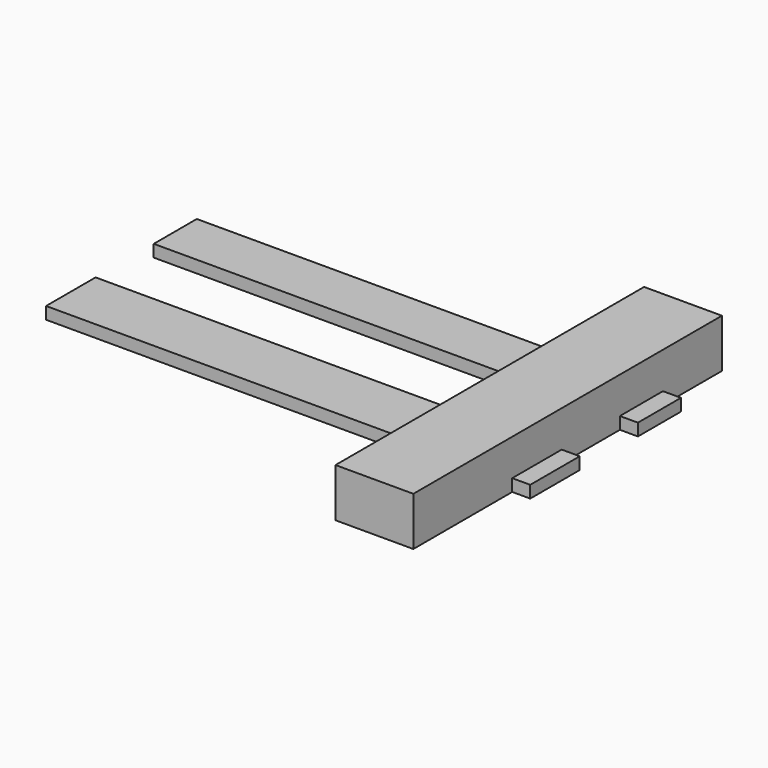
from build123d import *

# Parameters (mm, degrees)
F0_W     = 20.1816186309
F0_H     = 28.1114000827
F0_W_2   = 35.2424010634
F0_W_3   = 81.4566612244
F0_W_4   = 22.8382814676
F0_W_5   = 43.1228186935
F0_W_6   = 40.664061904
F0_W_7   = 9.4144269824
F1_DEPTH = 6.35
F0_H_2   = 32.3267914355
F2_DEPTH = 6.35
F0_H_3   = 64.5633451641
F0_H_4   = 37.9799026996
F0_H_5   = 38.5190211236
F3_DEPTH = 25.4


with BuildPart() as f1:
    # F0 (on Top) → F1 (new body)
    with BuildSketch(Plane.XY):
        with Locations((-126.7898716033, 52.0356027409)):
            Rectangle(F0_W, F0_H)
        with Locations((-99.0778617561, 52.0356027409)):
            Rectangle(F0_W_2, F0_H)
        with Locations((-40.7283306122, 52.0356027409)):
            Rectangle(F0_W_3, F0_H)
        with Locations((11.4191407338, 52.0356027409)):
            Rectangle(F0_W_4, F0_H)
        with Locations((44.3996908143, 52.0356027409)):
            Rectangle(F0_W_5, F0_H)
        with Locations((86.2931311131, 52.0356027409)):
            Rectangle(F0_W_6, F0_H)
        with Locations((111.3323755562, 52.0356027409)):
            Rectangle(F0_W_7, F0_H)
    extrude(amount=F1_DEPTH)


with BuildPart() as f2:
    # F0 (on Top) → F2 (new body)
    with BuildSketch(Plane.XY):
        with Locations((-126.7898716033, -16.1633957177)):
            Rectangle(F0_W, F0_H_2)
        with Locations((-99.0778617561, -16.1633957177)):
            Rectangle(F0_W_2, F0_H_2)
        with Locations((-40.7283306122, -16.1633957177)):
            Rectangle(F0_W_3, F0_H_2)
        with Locations((11.4191407338, -16.1633957177)):
            Rectangle(F0_W_4, F0_H_2)
        with Locations((44.3996908143, -16.1633957177)):
            Rectangle(F0_W_5, F0_H_2)
        with Locations((86.2931311131, -16.1633957177)):
            Rectangle(F0_W_6, F0_H_2)
        with Locations((111.3323755562, -16.1633957177)):
            Rectangle(F0_W_7, F0_H_2)
    extrude(amount=F2_DEPTH)


with BuildPart() as f3:
    # F0 (on Top) → F3 (new body)
    with BuildSketch(Plane.XY):
        with Locations((86.2931311131, -64.6084640175)):
            Rectangle(F0_W_6, F0_H_3)
        with Locations((86.2931311131, 18.9899513498)):
            Rectangle(F0_W_6, F0_H_4)
        with Locations((86.2931311131, 85.3508133441)):
            Rectangle(F0_W_6, F0_H_5)
        with Locations((86.2931311131, -16.1633957177)):
            Rectangle(F0_W_6, F0_H_2)
        with Locations((86.2931311131, 52.0356027409)):
            Rectangle(F0_W_6, F0_H)
    extrude(amount=F3_DEPTH)


solid = Compound([f1.part, f2.part, f3.part])
